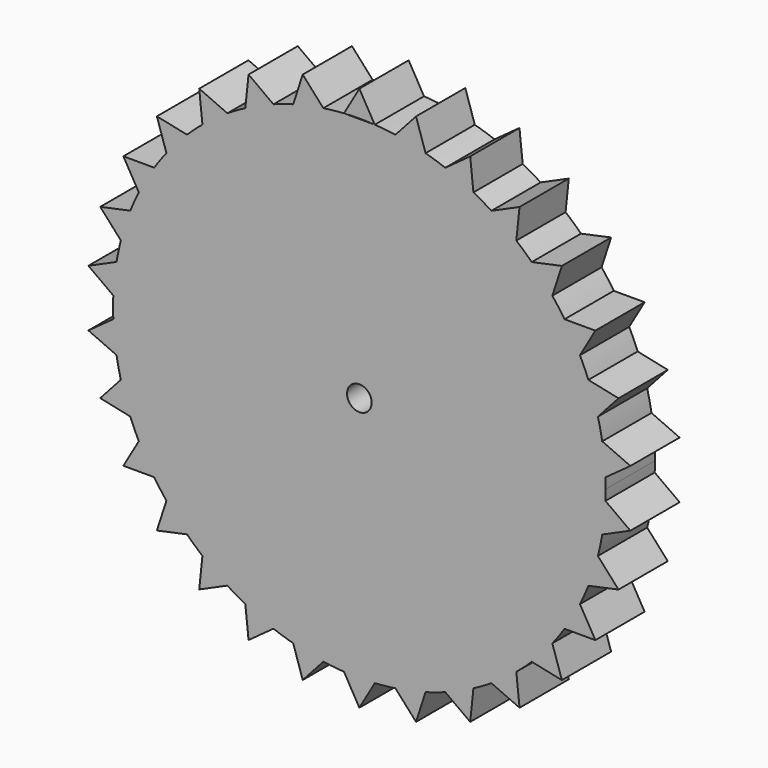
from build123d import *

# Parameters (mm, degrees)
F0_R     = 0.508
F1_DEPTH = 2.54


with BuildPart() as f1:
    # F0 (on Front) → F1 (new body)
    with BuildSketch(Plane.XZ):
        with BuildLine():
            ThreePointArc((10.150983, -0.42796), (10.157745, -0.214027), (10.16, 0))
            ThreePointArc((10.16, 0), (10.157745, 0.214027), (10.150983, 0.42796))
            ThreePointArc((10.150983, 0.42796), (10.104342, 1.062009), (10.018137, 1.6919))
            ThreePointArc((10.018137, 1.6919), (9.93798, 2.112383), (9.840182, 2.529116))
            ThreePointArc((9.840182, 2.529116), (9.662734, 3.139613), (9.447451, 3.737816))
            ThreePointArc((9.447451, 3.737816), (9.281622, 4.132444), (9.099317, 4.519737))
            ThreePointArc((9.099317, 4.519737), (8.798818, 5.08), (8.463866, 5.620371))
            ThreePointArc((8.463866, 5.620371), (8.219613, 5.971898), (7.960769, 6.312825))
            ThreePointArc((7.960769, 6.312825), (7.550351, 6.798367), (7.110369, 7.257289))
            ThreePointArc((7.110369, 7.257289), (6.798367, 7.550351), (6.474297, 7.830011))
            ThreePointArc((6.474297, 7.830011), (5.971898, 8.219613), (5.446115, 8.577029))
            ThreePointArc((5.446115, 8.577029), (5.08, 8.798818), (4.704867, 9.004989))
            ThreePointArc((4.704867, 9.004989), (4.132444, 9.281622), (3.54384, 9.521911))
            ThreePointArc((3.54384, 9.521911), (3.139613, 9.662734), (2.729812, 9.786405))
            ThreePointArc((2.729812, 9.786405), (2.112383, 9.93798), (1.486682, 10.050641))
            ThreePointArc((1.486682, 10.050641), (1.062009, 10.104342), (0.635451, 10.140109))
            Line((0.635451, 10.140109), (-0.635451, 10.140109))
            ThreePointArc((-0.635451, 10.140109), (-1.062009, 10.104342), (-1.486682, 10.050641))
            ThreePointArc((-1.486682, 10.050641), (-2.112383, 9.93798), (-2.729812, 9.786405))
            ThreePointArc((-2.729812, 9.786405), (-3.139613, 9.662734), (-3.54384, 9.521911))
            ThreePointArc((-3.54384, 9.521911), (-4.132444, 9.281622), (-4.704867, 9.004989))
            ThreePointArc((-4.704867, 9.004989), (-5.08, 8.798818), (-5.446115, 8.577029))
            ThreePointArc((-5.446115, 8.577029), (-5.971898, 8.219613), (-6.474297, 7.830011))
            ThreePointArc((-6.474297, 7.830011), (-6.798367, 7.550351), (-7.110369, 7.257289))
            ThreePointArc((-7.110369, 7.257289), (-7.550351, 6.798367), (-7.960769, 6.312825))
            ThreePointArc((-7.960769, 6.312825), (-8.219613, 5.971898), (-8.463866, 5.620371))
            ThreePointArc((-8.463866, 5.620371), (-8.798818, 5.08), (-9.099317, 4.519737))
            ThreePointArc((-9.099317, 4.519737), (-9.281622, 4.132444), (-9.447451, 3.737816))
            ThreePointArc((-9.447451, 3.737816), (-9.662734, 3.139613), (-9.840182, 2.529116))
            ThreePointArc((-9.840182, 2.529116), (-9.93798, 2.112383), (-10.018137, 1.6919))
            ThreePointArc((-10.018137, 1.6919), (-10.104342, 1.062009), (-10.150983, 0.42796))
            ThreePointArc((-10.150983, 0.42796), (-10.16, 0), (-10.150983, -0.42796))
            ThreePointArc((-10.150983, -0.42796), (-10.104342, -1.062009), (-10.018137, -1.6919))
            ThreePointArc((-10.018137, -1.6919), (-9.93798, -2.112383), (-9.840182, -2.529116))
            ThreePointArc((-9.840182, -2.529116), (-9.662734, -3.139613), (-9.447451, -3.737816))
            ThreePointArc((-9.447451, -3.737816), (-9.281622, -4.132444), (-9.099317, -4.519737))
            ThreePointArc((-9.099317, -4.519737), (-8.798818, -5.08), (-8.463866, -5.620371))
            ThreePointArc((-8.463866, -5.620371), (-8.219613, -5.971898), (-7.960769, -6.312825))
            ThreePointArc((-7.960769, -6.312825), (-7.550351, -6.798367), (-7.110369, -7.257289))
            ThreePointArc((-7.110369, -7.257289), (-6.798367, -7.550351), (-6.474297, -7.830011))
            ThreePointArc((-6.474297, -7.830011), (-5.971898, -8.219613), (-5.446115, -8.577029))
            ThreePointArc((-5.446115, -8.577029), (-5.08, -8.798818), (-4.704867, -9.004989))
            ThreePointArc((-4.704867, -9.004989), (-4.132444, -9.281622), (-3.54384, -9.521911))
            ThreePointArc((-3.54384, -9.521911), (-3.139613, -9.662734), (-2.729812, -9.786405))
            ThreePointArc((-2.729812, -9.786405), (-2.112383, -9.93798), (-1.486682, -10.050641))
            ThreePointArc((-1.486682, -10.050641), (-1.062009, -10.104342), (-0.635451, -10.140109))
            ThreePointArc((-0.635451, -10.140109), (0, -10.16), (0.635451, -10.140109))
            ThreePointArc((0.635451, -10.140109), (1.062009, -10.104342), (1.486682, -10.050641))
            ThreePointArc((1.486682, -10.050641), (2.112383, -9.93798), (2.729812, -9.786405))
            ThreePointArc((2.729812, -9.786405), (3.139613, -9.662734), (3.54384, -9.521911))
            ThreePointArc((3.54384, -9.521911), (4.132444, -9.281622), (4.704867, -9.004989))
            ThreePointArc((4.704867, -9.004989), (5.08, -8.798818), (5.446115, -8.577029))
            ThreePointArc((5.446115, -8.577029), (5.971898, -8.219613), (6.474297, -7.830011))
            ThreePointArc((6.474297, -7.830011), (6.798367, -7.550351), (7.110369, -7.257289))
            ThreePointArc((7.110369, -7.257289), (7.550351, -6.798367), (7.960769, -6.312825))
            ThreePointArc((7.960769, -6.312825), (8.219613, -5.971898), (8.463866, -5.620371))
            ThreePointArc((8.463866, -5.620371), (8.798818, -5.08), (9.099317, -4.519737))
            ThreePointArc((9.099317, -4.519737), (9.281622, -4.132444), (9.447451, -3.737816))
            ThreePointArc((9.447451, -3.737816), (9.662734, -3.139613), (9.840182, -2.529116))
            ThreePointArc((9.840182, -2.529116), (9.93798, -2.112383), (10.018137, -1.6919))
            ThreePointArc((10.018137, -1.6919), (10.104342, -1.062009), (10.150983, -0.42796))
        make_face()
        Circle(F0_R, mode=Mode.SUBTRACT)
        with BuildLine():
            ThreePointArc((-9.840182, 2.529116), (-9.662734, 3.139613), (-9.447451, 3.737816))
            Line((-9.447451, 3.737816), (-10.690581, 3.47358))
            Line((-10.690581, 3.47358), (-9.840182, 2.529116))
        make_face()
        with BuildLine():
            ThreePointArc((-9.099317, 4.519737), (-8.798818, 5.08), (-8.463866, 5.620371))
            Line((-8.463866, 5.620371), (-9.734769, 5.620371))
            Line((-9.734769, 5.620371), (-9.099317, 4.519737))
        make_face()
        with BuildLine():
            ThreePointArc((-7.960769, 6.312825), (-7.550351, 6.798367), (-7.110369, 7.257289))
            Line((-7.110369, 7.257289), (-8.3535, 7.521525))
            Line((-8.3535, 7.521525), (-7.960769, 6.312825))
        make_face()
        with BuildLine():
            ThreePointArc((-6.474297, 7.830011), (-5.971898, 8.219613), (-5.446115, 8.577029))
            Line((-5.446115, 8.577029), (-6.607143, 9.093952))
            Line((-6.607143, 9.093952), (-6.474297, 7.830011))
        make_face()
        with BuildLine():
            ThreePointArc((-4.704867, 9.004989), (-4.132444, 9.281622), (-3.54384, 9.521911))
            Line((-3.54384, 9.521911), (-4.572022, 10.268929))
            Line((-4.572022, 10.268929), (-4.704867, 9.004989))
        make_face()
        with BuildLine():
            ThreePointArc((-2.729812, 9.786405), (-2.112383, 9.93798), (-1.486682, 10.050641))
            Line((-1.486682, 10.050641), (-2.337082, 10.995105))
            Line((-2.337082, 10.995105), (-2.729812, 9.786405))
        make_face()
        with BuildLine():
            ThreePointArc((-0.635451, 10.140109), (0, 10.16), (0.635451, 10.140109))
            Line((0.635451, 10.140109), (0, 11.240743))
            Line((0, 11.240743), (-0.635451, 10.140109))
        make_face()
        with BuildLine():
            ThreePointArc((1.486682, 10.050641), (2.112383, 9.93798), (2.729812, 9.786405))
            Line((2.729812, 9.786405), (2.337082, 10.995105))
            Line((2.337082, 10.995105), (1.486682, 10.050641))
        make_face()
        with BuildLine():
            ThreePointArc((3.54384, 9.521911), (4.132444, 9.281622), (4.704867, 9.004989))
            Line((4.704867, 9.004989), (4.572022, 10.268929))
            Line((4.572022, 10.268929), (3.54384, 9.521911))
        make_face()
        with BuildLine():
            ThreePointArc((5.446115, 8.577029), (5.971898, 8.219613), (6.474297, 7.830011))
            Line((6.474297, 7.830011), (6.607143, 9.093952))
            Line((6.607143, 9.093952), (5.446115, 8.577029))
        make_face()
        with BuildLine():
            ThreePointArc((7.110369, 7.257289), (7.550351, 6.798367), (7.960769, 6.312825))
            Line((7.960769, 6.312825), (8.3535, 7.521525))
            Line((8.3535, 7.521525), (7.110369, 7.257289))
        make_face()
        with BuildLine():
            ThreePointArc((8.463866, 5.620371), (8.798818, 5.08), (9.099317, 4.519737))
            Line((9.099317, 4.519737), (9.734769, 5.620371))
            Line((9.734769, 5.620371), (8.463866, 5.620371))
        make_face()
        with BuildLine():
            ThreePointArc((9.447451, 3.737816), (9.662734, 3.139613), (9.840182, 2.529116))
            Line((9.840182, 2.529116), (10.690581, 3.47358))
            Line((10.690581, 3.47358), (9.447451, 3.737816))
        make_face()
        with BuildLine():
            ThreePointArc((10.018137, 1.6919), (10.104342, 1.062009), (10.150983, 0.42796))
            Line((10.150983, 0.42796), (11.179165, 1.174978))
            Line((11.179165, 1.174978), (10.018137, 1.6919))
        make_face()
        with BuildLine():
            Line((11.179165, -1.174978), (10.150983, -0.42796))
            ThreePointArc((10.150983, -0.42796), (10.104342, -1.062009), (10.018137, -1.6919))
            Line((10.018137, -1.6919), (11.179165, -1.174978))
        make_face()
        with BuildLine():
            Line((10.690581, -3.47358), (9.840182, -2.529116))
            ThreePointArc((9.840182, -2.529116), (9.662734, -3.139613), (9.447451, -3.737816))
            Line((9.447451, -3.737816), (10.690581, -3.47358))
        make_face()
        with BuildLine():
            Line((9.734769, -5.620371), (9.099317, -4.519737))
            ThreePointArc((9.099317, -4.519737), (8.798818, -5.08), (8.463866, -5.620371))
            Line((8.463866, -5.620371), (9.734769, -5.620371))
        make_face()
        with BuildLine():
            Line((8.3535, -7.521525), (7.960769, -6.312825))
            ThreePointArc((7.960769, -6.312825), (7.550351, -6.798367), (7.110369, -7.257289))
            Line((7.110369, -7.257289), (8.3535, -7.521525))
        make_face()
        with BuildLine():
            Line((6.607143, -9.093952), (6.474297, -7.830011))
            ThreePointArc((6.474297, -7.830011), (5.971898, -8.219613), (5.446115, -8.577029))
            Line((5.446115, -8.577029), (6.607143, -9.093952))
        make_face()
        with BuildLine():
            Line((4.572022, -10.268929), (4.704867, -9.004989))
            ThreePointArc((4.704867, -9.004989), (4.132444, -9.281622), (3.54384, -9.521911))
            Line((3.54384, -9.521911), (4.572022, -10.268929))
        make_face()
        with BuildLine():
            Line((2.337082, -10.995105), (2.729812, -9.786405))
            ThreePointArc((2.729812, -9.786405), (2.112383, -9.93798), (1.486682, -10.050641))
            Line((1.486682, -10.050641), (2.337082, -10.995105))
        make_face()
        with BuildLine():
            Line((0, -11.240743), (0.635451, -10.140109))
            ThreePointArc((0.635451, -10.140109), (0, -10.16), (-0.635451, -10.140109))
            Line((-0.635451, -10.140109), (0, -11.240743))
        make_face()
        with BuildLine():
            Line((-2.337082, -10.995105), (-1.486682, -10.050641))
            ThreePointArc((-1.486682, -10.050641), (-2.112383, -9.93798), (-2.729812, -9.786405))
            Line((-2.729812, -9.786405), (-2.337082, -10.995105))
        make_face()
        with BuildLine():
            Line((-4.572022, -10.268929), (-3.54384, -9.521911))
            ThreePointArc((-3.54384, -9.521911), (-4.132444, -9.281622), (-4.704867, -9.004989))
            Line((-4.704867, -9.004989), (-4.572022, -10.268929))
        make_face()
        with BuildLine():
            Line((-6.607143, -9.093952), (-5.446115, -8.577029))
            ThreePointArc((-5.446115, -8.577029), (-5.971898, -8.219613), (-6.474297, -7.830011))
            Line((-6.474297, -7.830011), (-6.607143, -9.093952))
        make_face()
        with BuildLine():
            Line((-8.3535, -7.521525), (-7.110369, -7.257289))
            ThreePointArc((-7.110369, -7.257289), (-7.550351, -6.798367), (-7.960769, -6.312825))
            Line((-7.960769, -6.312825), (-8.3535, -7.521525))
        make_face()
        with BuildLine():
            Line((-9.734769, -5.620371), (-8.463866, -5.620371))
            ThreePointArc((-8.463866, -5.620371), (-8.798818, -5.08), (-9.099317, -4.519737))
            Line((-9.099317, -4.519737), (-9.734769, -5.620371))
        make_face()
        with BuildLine():
            Line((-10.690581, -3.47358), (-9.447451, -3.737816))
            ThreePointArc((-9.447451, -3.737816), (-9.662734, -3.139613), (-9.840182, -2.529116))
            Line((-9.840182, -2.529116), (-10.690581, -3.47358))
        make_face()
        with BuildLine():
            Line((-11.179165, -1.174978), (-10.018137, -1.6919))
            ThreePointArc((-10.018137, -1.6919), (-10.104342, -1.062009), (-10.150983, -0.42796))
            Line((-10.150983, -0.42796), (-11.179165, -1.174978))
        make_face()
        with BuildLine():
            ThreePointArc((-10.150983, 0.42796), (-10.104342, 1.062009), (-10.018137, 1.6919))
            Line((-10.018137, 1.6919), (-11.179165, 1.174978))
            Line((-11.179165, 1.174978), (-10.150983, 0.42796))
        make_face()
    extrude(amount=F1_DEPTH)


solid = f1.part
